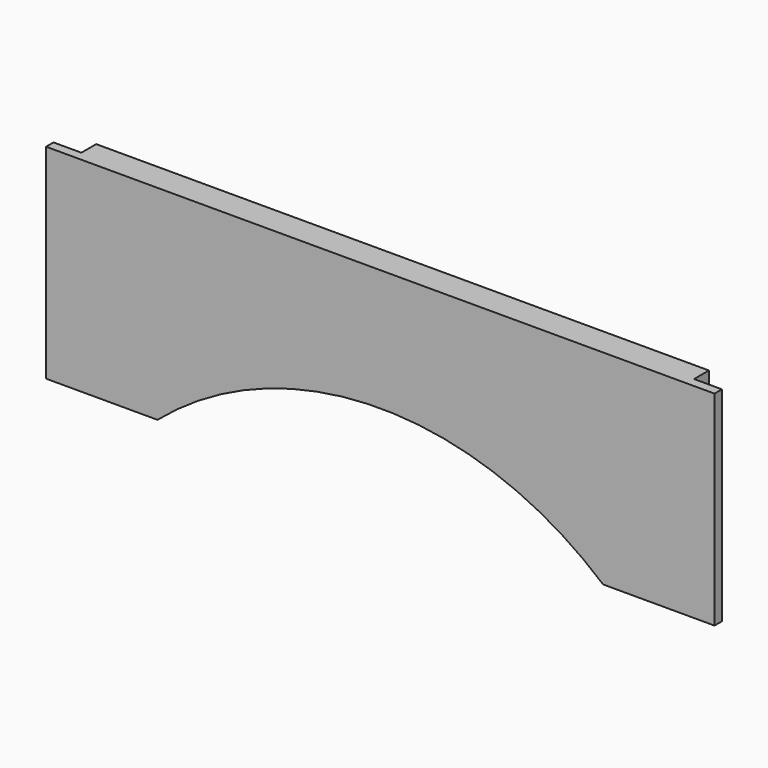
from build123d import *

# Parameters (mm, degrees)
F0_W     = 457.2
F0_H     = 139.7
F1_DEPTH = 19.05
F2_W     = 19.05
F2_H     = 12.7
F3_DEPTH = 139.701
F4_W     = 19.05
F4_H     = 12.7
F5_DEPTH = 139.701
F7_DEPTH = 19.051


with BuildPart() as f1:
    # F0 (on Front) → F1 (new body)
    with BuildSketch(Plane.XZ):
        with Locations((-228.6, 69.85)):
            Rectangle(F0_W, F0_H)
    extrude(amount=F1_DEPTH)

    # F2 (on face) → F3 (cut, through all)
    with BuildSketch(Plane.XY.offset(139.7)):
        with Locations((-9.525, -6.35)):
            Rectangle(F2_W, F2_H)
    extrude(amount=-F3_DEPTH, mode=Mode.SUBTRACT)

    # F4 (on face) → F5 (cut, through all)
    with BuildSketch(Plane.XY.offset(139.7)):
        with Locations((-447.675, -6.35)):
            Rectangle(F4_W, F4_H)
    extrude(amount=-F5_DEPTH, mode=Mode.SUBTRACT)

    # F6 (on face) → F7 (cut, through all)
    with BuildSketch(Plane.XZ.offset(19.05)):
        with BuildLine():
            Line((-381, 0), (-76.2, 0))
            ThreePointArc((-76.2, 0), (-228.6, 56.515785), (-381, 0))
        make_face()
    extrude(amount=-F7_DEPTH, mode=Mode.SUBTRACT)


solid = f1.part
